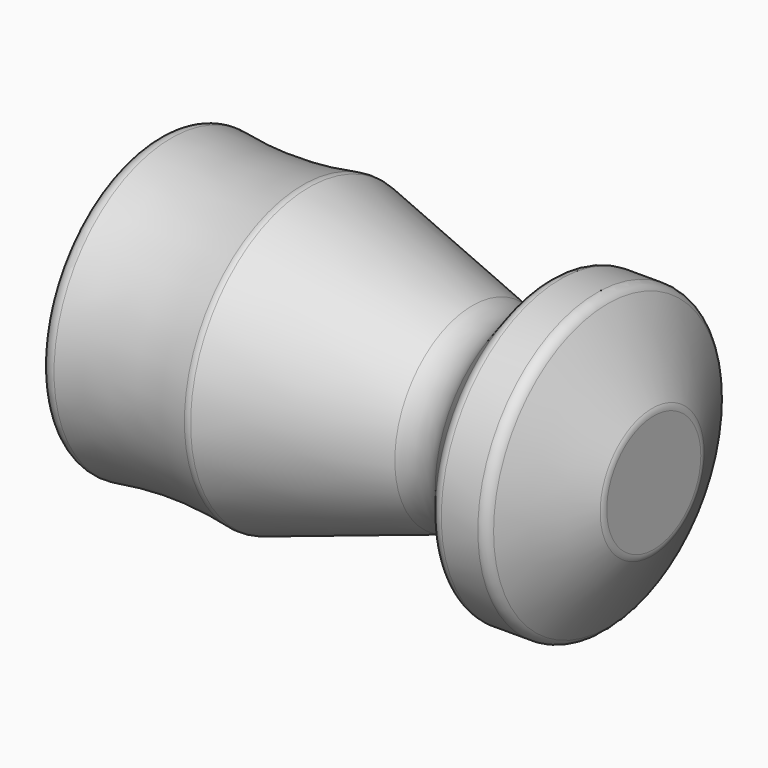
from build123d import *


with BuildPart() as f1:
    # F0 (on Top) → F1 (revolve)
    with BuildSketch(Plane.XY):
        with BuildLine():
            Line((-25.4, 0), (0, 0))
            Line((0, 0), (0, 3.006029))
            ThreePointArc((0, 3.006029), (-0.021354, 3.169318), (-0.083979, 3.321625))
            Line((-0.083979, 3.321625), (-2.357062, 7.290364))
            ThreePointArc((-2.357062, 7.290364), (-2.589633, 7.524145), (-2.908083, 7.609769))
            Line((-2.908083, 7.609769), (-4.775419, 7.609769))
            ThreePointArc((-4.775419, 7.609769), (-5.050043, 7.547313), (-5.270645, 7.37223))
            Line((-5.270645, 7.37223), (-6.536468, 5.795051))
            ThreePointArc((-6.536468, 5.795051), (-7.77584, 4.955551), (-9.272766, 4.959825))
            Line((-9.272766, 4.959825), (-17.629906, 7.563013))
            ThreePointArc((-17.629906, 7.563013), (-17.779944, 7.590558), (-17.932223, 7.581525))
            ThreePointArc((-17.932223, 7.581525), (-21.296409, 7.256235), (-24.667976, 7.493079))
            ThreePointArc((-24.667976, 7.493079), (-25.178288, 7.347632), (-25.4, 6.865535))
            Line((-25.4, 6.865535), (-25.4, 0))
        make_face()
    revolve(axis=Axis((-12.7, 0, 0), (-1, 0, 0)))


solid = f1.part
